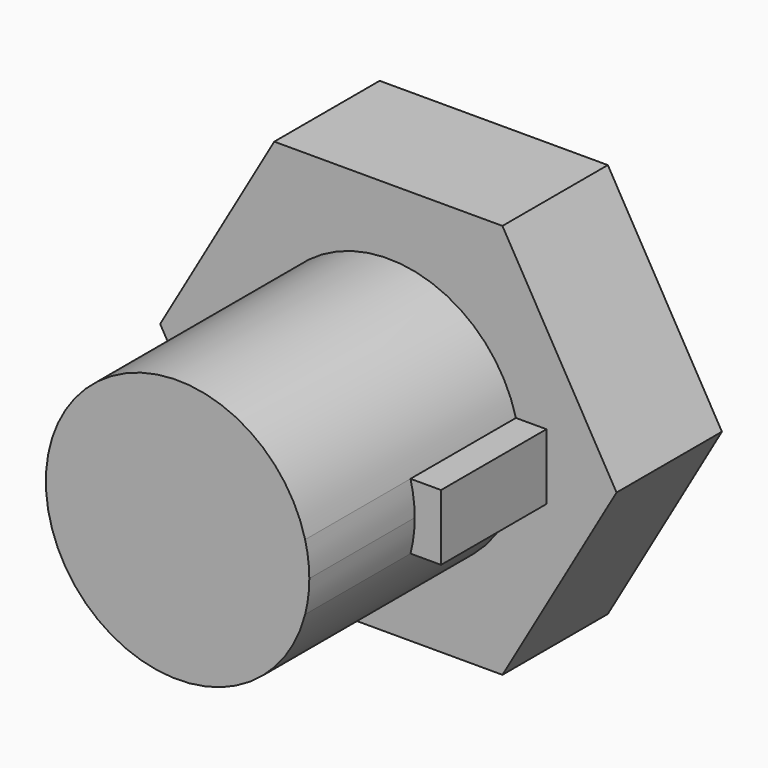
from build123d import *

# Parameters (mm, degrees)
F1_DEPTH = 30
F2_DEPTH = 10
F3_DEPTH = 20


with BuildPart() as f1:
    # F0 (on Front) → F1 (new body)
    with BuildSketch(Plane.XZ):
        with BuildLine():
            ThreePointArc((9.682458, -2.5), (9.920297, -1.260043), (10, 0))
            ThreePointArc((10, 0), (9.920297, 1.260043), (9.682458, 2.5))
            ThreePointArc((9.682458, 2.5), (-10, 0), (9.682458, -2.5))
        make_face()
    extrude(amount=F1_DEPTH)

    # F0 (on Front) → F2 (join)
    with BuildSketch(Plane.XZ):
        Polygon((-8.660254, -15), (8.660254, -15), (17.320508, 0), (8.660254, 15), (-8.660254, 15), (-17.320508, 0), align=None)
        with BuildLine():
            ThreePointArc((9.682458, -2.5), (-10, 0), (9.682458, 2.5))
            Line((9.682458, 2.5), (12, 2.5))
            Line((12, 2.5), (12, -2.5))
            Line((12, -2.5), (9.682458, -2.5))
        make_face(mode=Mode.SUBTRACT)
        with BuildLine():
            ThreePointArc((9.682458, 2.5), (9.920297, 1.260043), (10, 0))
            ThreePointArc((10, 0), (9.920297, -1.260043), (9.682458, -2.5))
            Line((9.682458, -2.5), (12, -2.5))
            Line((12, -2.5), (12, 2.5))
            Line((12, 2.5), (9.682458, 2.5))
        make_face()
        with BuildLine():
            ThreePointArc((9.682458, -2.5), (9.920297, -1.260043), (10, 0))
            ThreePointArc((10, 0), (9.920297, 1.260043), (9.682458, 2.5))
            ThreePointArc((9.682458, 2.5), (-10, 0), (9.682458, -2.5))
        make_face()
    extrude(amount=F2_DEPTH)

    # F0 (on Front) → F3 (join)
    with BuildSketch(Plane.XZ):
        with BuildLine():
            ThreePointArc((9.682458, 2.5), (9.920297, 1.260043), (10, 0))
            ThreePointArc((10, 0), (9.920297, -1.260043), (9.682458, -2.5))
            Line((9.682458, -2.5), (12, -2.5))
            Line((12, -2.5), (12, 2.5))
            Line((12, 2.5), (9.682458, 2.5))
        make_face()
    extrude(amount=F3_DEPTH)


solid = f1.part
